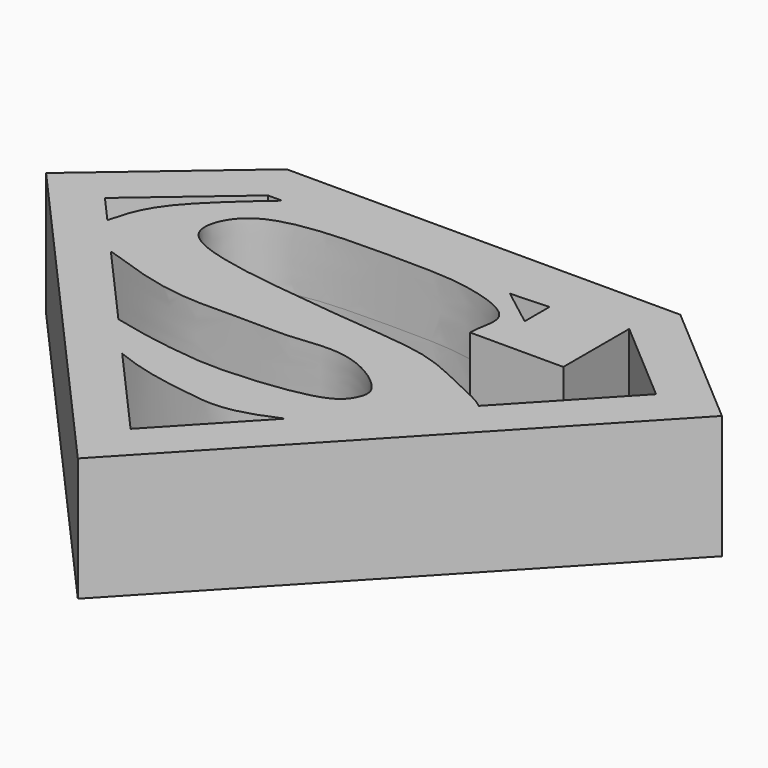
from build123d import *

# Parameters (mm, degrees)
F1_DEPTH = 26.924


with BuildPart() as f1:
    # F0 (on Top) → F1 (new body, symmetric)
    with BuildSketch(Plane.XY):
        Polygon((93.5661115235, 95.4030697423), (0, 95.4030697423), (-78.0483888792, 95.4030697423), (-140.2664630047, 42.0732789978), (-0.3971174562, -115.4690810949), (151.2495504538, 45.960110107), align=None)
        with BuildLine():
            Line((-64.8054033518, 76.3530656695), (0, 76.3530656695))
            Line((0, 76.3530656695), (86.5190550685, 76.3530656695))
            Line((86.5190550685, 76.3530656695), (123.7140494495, 44.4716341891))
            Line((123.7140494495, 44.4716341891), (81.9373726845, 0))
            Line((81.9373726845, 0), (36.3881188441, -48.487575155))
            Line((36.3881188441, -48.487575155), (0, -87.2230427741))
            Line((0, -87.2230427741), (-36.8537793952, -45.7126506186))
            Line((-36.8537793952, -45.7126506186), (-53.7405035993, -26.6922257005))
            Line((-53.7405035993, -26.6922257005), (-86.273483241, 9.9514175045))
            Line((-86.273483241, 9.9514175045), (-86.4882588998, 10.1933308705))
            add(Edge.make_bspline(
                [(-86.7994072909, 10.5437940236), (-86.8249457999, 10.4774654613), (-86.6147196159, 10.3092655268), (-86.4882588998, 10.1933308705)],
                knots=[0.9760298412, 0.9760298412, 0.9760298412, 0.9760298412, 0.9891223973, 0.9891223973, 0.9891223973, 0.9891223973], degree=3))
            Line((-86.7994072908, 10.5437940236), (-102.2947715083, 27.9970554209))
            Line((-102.2947715083, 27.9970554209), (-113.1508797407, 40.224873501))
            Line((-113.1508797407, 40.224873501), (-71.0013324242, 76.3530656695))
            Line((-71.0013324242, 76.3530656695), (-64.8054033518, 76.3530656695))
        make_face(mode=Mode.SUBTRACT)
        with BuildLine():
            Line((86.5190550685, 76.3530656695), (0, 76.3530656695))
            Line((0, 76.3530656695), (-64.8054033518, 76.3530656695))
            add(Edge.make_bspline(
                [(-102.2947715083, 27.9970554209), (-100.7461500566, 33.8714335608), (-96.9050318976, 48.4419281899), (-76.8029438477, 65.9210134195), (-64.8054033518, 76.3530656695)],
                knots=[0, 0, 0, 0, 0.4031694386, 1, 1, 1, 1], degree=3))
            Line((-102.2947715083, 27.9970554209), (-86.7994072908, 10.5437940236))
            add(Edge.make_bspline(
                [(-53.7405035993, -26.6922257005), (-39.9322328117, -30.239048073), (-19.403909464, -33.1764431283), (-1.4056747967, -34.4752054886), (39.4782880375, -30.5920588495), (46.2704728337, -20.6018408829), (48.0657227174, -12.0775825028), (25.2246018528, 4.1820802156), (-0.0353486561, -0.9072663322), (-15.8414362299, 0.4096484474), (-42.3209937207, -0.780893259), (-64.6266067929, 2.5586075813), (-86.6333562607, 10.9750614114), (-86.7994072909, 10.5437940236)],
                knots=[0, 0, 0, 0, 0.1128110471, 0.1973078472, 0.3168457933, 0.3785360119, 0.4276109134, 0.522434178, 0.6188364248, 0.6953840518, 0.7911541238, 0.8909022242, 0.9760298412, 0.9760298412, 0.9760298412, 0.9760298412], degree=3))
            Line((-53.7405035993, -26.6922257005), (-36.8537793952, -45.7126506186))
            add(Edge.make_bspline(
                [(36.3881188441, -48.487575155), (17.6317972727, -56.8692183251), (2.6893829028, -55.1049540138), (-23.5670188679, -51.1800306581), (-36.8537793952, -45.7126506186)],
                knots=[0, 0, 0, 0, 0.4966202139, 1, 1, 1, 1], degree=3))
            Line((36.3881188441, -48.487575155), (81.9373726845, 0))
            add(Edge.make_bspline(
                [(45.9292493761, 40.4476597905), (45.6993870129, 45.8746200721), (52.0124555855, 58.4630819682), (21.9076895291, 67.5019694716), (0.2612297538, 67.6821463856), (-23.7331203906, 67.9865961046), (-51.3630141121, 66.5579155458), (-70.1569045338, 58.6843109102), (-77.2519579015, 37.0087601682), (-48.0464652316, 28.3587342243), (-18.2394309053, 24.8912137289), (13.4330012841, 21.1537638514), (45.624643393, 19.1058207684), (66.0552753624, 8.0469339603), (78.4894690764, 3.0108046907), (81.9373726845, 0)],
                knots=[0, 0, 0, 0, 0.0615417609, 0.1408767563, 0.2174128092, 0.2945486914, 0.3779389231, 0.4478483721, 0.5110109408, 0.590015754, 0.6793821461, 0.7691152163, 0.8583953992, 0.9349901149, 1, 1, 1, 1], degree=3))
            Line((45.9292493761, 40.4476597905), (86.5190550685, 40.4476597905))
            Line((86.5190550685, 40.4476597905), (86.5190550685, 76.3530656695))
        make_face()
        Polygon((55.2216693759, 58.506347239), (38.5727547109, 71.2880417705), (55.2216693759, 72.0626935363), (55.2216693759, 65.2845203876), align=None, mode=Mode.SUBTRACT)
    extrude(amount=F1_DEPTH, both=True)


solid = f1.part
